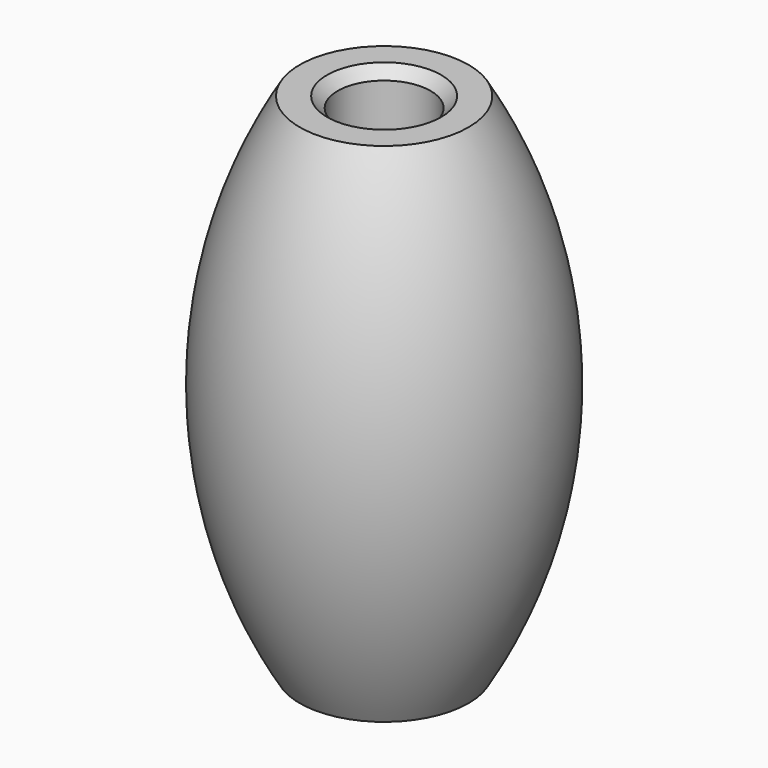
from build123d import *

# Parameters (mm, degrees)
F2_SIZE = 0.5


with BuildPart() as f1:
    # F0 (on Front) → F1 (revolve)
    with BuildSketch(Plane.XZ):
        with BuildLine():
            Line((2.2, 24), (2.2, 0))
            Line((2.2, 0), (4, 0))
            ThreePointArc((4, 0), (7.323808, 12), (4, 24))
            Line((4, 24), (2.2, 24))
        make_face()
    revolve(axis=Axis((0, 0, 12), (0, 0, 1)))

    # F2
    f2_edges = [f1.edges().sort_by_distance(p)[0] for p in [
        (-2.2, 0, 24),
        (-2.2, 0, 0),
    ]]
    chamfer(f2_edges, length=F2_SIZE)


solid = f1.part
